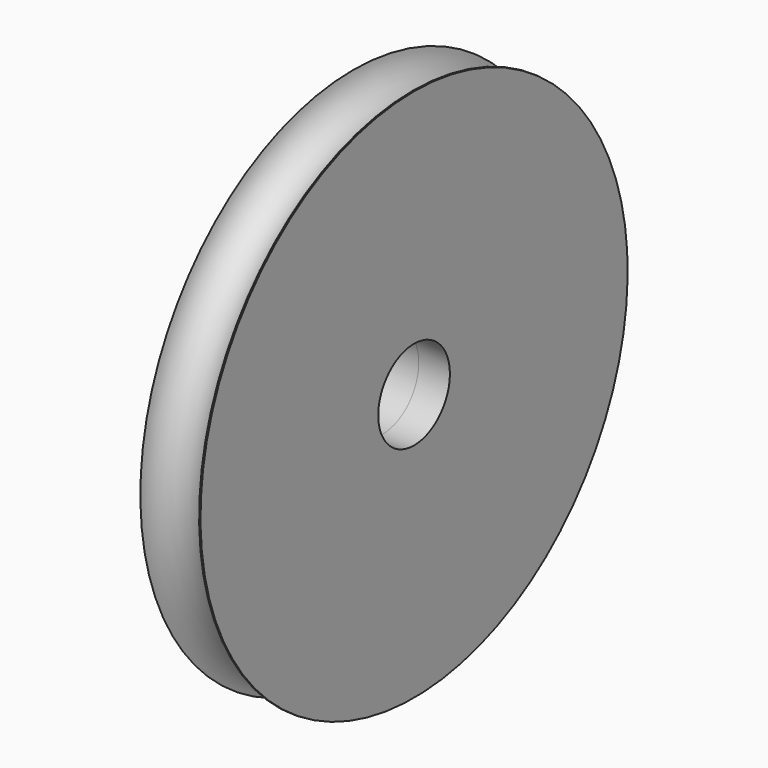
from build123d import *

# Parameters (mm, degrees)
F2_R          = 1.5875
F3_DEPTH      = 25.4
F3_DEPTH_BACK = 25.4


with BuildPart() as f1:
    # F0 (on Front) → F1 (revolve)
    with BuildSketch(Plane.XZ):
        with BuildLine():
            Line((1.1030725436, 0), (1.1030725436, 9.4609120048))
            ThreePointArc((1.1030725436, 9.4609120048), (1.0810313043, 9.4634558338), (1.0589841992, 9.4659483131))
            ThreePointArc((1.0589841992, 9.4659483131), (0.0204109211, 8.4645670553), (-1.0559274564, 9.4252410764))
            Line((-1.0559274564, 9.4252410764), (-1.0559274564, 0))
            Line((-1.0559274564, 0), (1.1030725436, 0))
        make_face()
    revolve(axis=Axis((0.0235725436, 0, 0), (1, 0, 0)))

    # F2 (on Right) → F3 (cut, two sides)
    with BuildSketch(Plane.YZ) as f3_sk:
        Circle(F2_R)
    extrude(amount=-F3_DEPTH, mode=Mode.SUBTRACT)
    extrude(f3_sk.sketch, amount=F3_DEPTH_BACK, mode=Mode.SUBTRACT)


solid = f1.part
